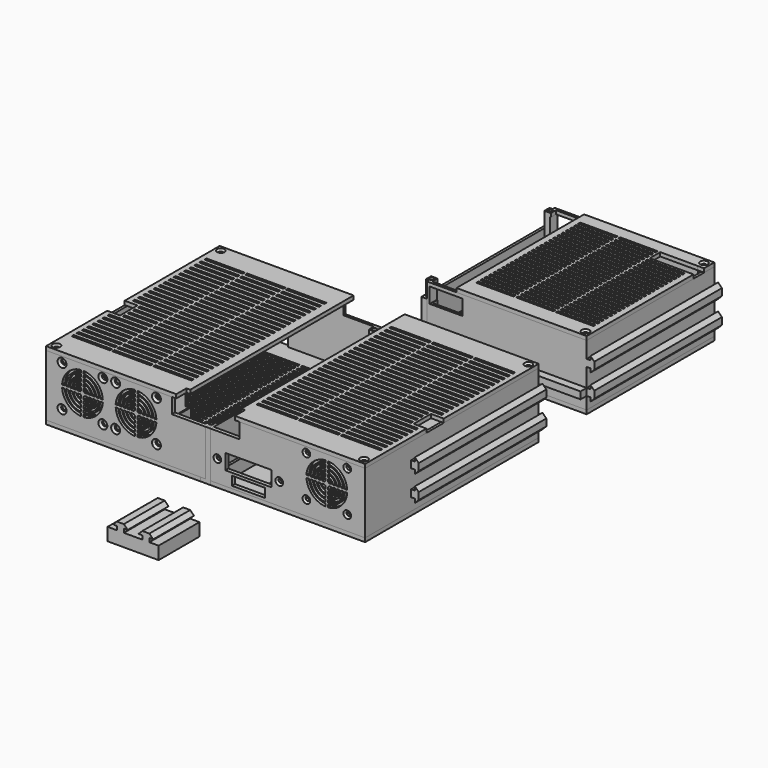
from build123d import *

# Parameters (mm, degrees)
SKETCH010_W             = 125
SKETCH010_H             = 170
PAD_DEPTH               = 3
SKETCH062_W             = 4
SKETCH062_H             = 10
PAD017_DEPTH            = 3
HOLE002_D               = 3.3
HOLE002_CSINK_D         = 6
HOLE002_CSINK_ANGLE     = 90
SKETCH064_W             = 4
SKETCH064_H             = 9
POCKET023_DEPTH         = 3
SKETCH081_R             = 3
PAD036_DEPTH            = 10
SKETCH105_R             = 1.375
HOLE014_DEPTH           = 25
PAD048_DEPTH            = 10
PAD001_DEPTH            = 48
PAD002_DEPTH            = 125
SKETCH025_W             = 8
SKETCH025_H             = 10
POCKET001_DEPTH         = 1
SKETCH028_W             = 26.5
SKETCH028_H             = 12
POCKET003_DEPTH         = 170.001
PAD016_DEPTH            = 5
HOLE009_D               = 3.3
HOLE009_DEPTH           = 24.00858
HOLE009_CSINK_D         = 6
HOLE009_CSINK_ANGLE     = 90
HOLE009_TIPS_R          = 1.65
POCKET_DEPTH            = 15
SKETCH053_R             = 1.65
HOLE015_DEPTH           = 48.001
SKETCH131_W             = 26
SKETCH131_H             = 7
SKETCH131_W_2           = 36
SKETCH131_H_2           = 12
POCKET044_DEPTH         = 5
HOLE020_D               = 3.3
HOLE020_DEPTH           = 24.00858
HOLE020_CSINK_D         = 6
HOLE020_CSINK_ANGLE     = 90
HOLE020_TIPS_R          = 1.65
SKETCH140_W             = 2.5
SKETCH140_H             = 3
SKETCH140_H_2           = 2
POCKET048_DEPTH         = 5.001
SKETCH031_W             = 105
SKETCH031_H             = 170
PAD005_DEPTH            = 3
SKETCH033_W             = 31
SKETCH033_H             = 2
POCKET006_DEPTH         = 3.001
LINEARPATTERN002_COUNT  = 27
LINEARPATTERN002_PITCH  = 5
SKETCH059_W             = 3
SKETCH059_H             = 10
POCKET022_DEPTH         = 3.001
POCKET037_DEPTH         = 3.001
SKETCH107_W             = 2
SKETCH107_H             = 2
PAD037_DEPTH            = 3
HOLE022_D               = 3.3
HOLE022_CSINK_D         = 6
HOLE022_CSINK_ANGLE     = 90
SKETCH034_W             = 125
SKETCH034_H             = 170
PAD006_DEPTH            = 3
SKETCH065_W             = 4
SKETCH065_H             = 10
POCKET024_DEPTH         = 3
SKETCH066_W             = 4
SKETCH066_H             = 9
PAD018_DEPTH            = 3
HOLE003_D               = 3.3
HOLE003_DEPTH           = 25
HOLE003_CSINK_D         = 6
HOLE003_CSINK_ANGLE     = 90
SKETCH047_R             = 2.5
PAD019_DEPTH            = 6
SKETCH076_R             = 1.65
HOLE007_DEPTH           = 25
SKETCH138_W             = 38.25
SKETCH138_H             = 2
POCKET046_DEPTH         = 3.001
LINEARPATTERN005_COUNT  = 32
LINEARPATTERN005_PITCH  = 4.096774
SKETCH139_W             = 21.38225
SKETCH139_H             = 2
POCKET047_DEPTH         = 3.001
LINEARPATTERN006_COUNT  = 35
LINEARPATTERN006_PITCH  = 4.117647
PAD007_DEPTH            = 48
PAD011_DEPTH            = 125
SKETCH045_W             = 26.5
SKETCH045_H             = 12
POCKET013_DEPTH         = 170.001
SKETCH055_W             = 5
SKETCH055_H             = 5
PAD015_DEPTH            = 36
SKETCH056_W             = 5
SKETCH056_H             = 5
POCKET020_DEPTH         = 5
SKETCH046_W             = 40
SKETCH046_H             = 12
POCKET026_DEPTH         = 5
POCKET027_DEPTH         = 6
PAD023_DEPTH            = 1
SKETCH054_W             = 10.5
SKETCH054_H             = 5
POCKET028_DEPTH         = 1
HOLE008_D               = 3.85
HOLE008_DEPTH           = 23.843343
HOLE008_CSINK_D         = 7
HOLE008_CSINK_ANGLE     = 90
HOLE008_TIPS_R          = 1.925
POCKET042_DEPTH         = 15
LINEARPATTERN_COUNT     = 2
LINEARPATTERN_PITCH     = 42
SKETCH079_W             = 6
SKETCH079_H             = 7
POCKET043_DEPTH         = 1
SKETCH135_R             = 1.65
HOLE021_DEPTH           = 48.001
SKETCH042_W             = 105
SKETCH042_H             = 170
PAD010_DEPTH            = 3
SKETCH044_W             = 30
SKETCH044_H             = 2
POCKET012_DEPTH         = 5
LINEARPATTERN003_COUNT  = 27
LINEARPATTERN003_PITCH  = 5
SKETCH052_W             = 3
SKETCH052_H             = 10
POCKET018_DEPTH         = 3
SKETCH108_W             = 10
SKETCH108_H             = 17
POCKET038_DEPTH         = 3.001
SKETCH109_W             = 2
SKETCH109_H             = 2
PAD038_DEPTH            = 3
HOLE_D                  = 3.3
HOLE_CSINK_D            = 6
HOLE_CSINK_ANGLE        = 90
PAD020_DEPTH            = 3
PAD021_DEPTH            = 36
SKETCH073_W             = 5
SKETCH073_H             = 5
PAD022_DEPTH            = 5
SKETCH074_R             = 1.65
HOLE006_DEPTH           = 25
POCKET025_DEPTH         = 1.5
SKETCH084_W             = 125
SKETCH084_H             = 125
PAD026_DEPTH            = 3
POCKET033_DEPTH         = 3
SKETCH097_W             = 4.5
SKETCH097_H             = 8
PAD034_DEPTH            = 3
HOLE011_D               = 3.3
HOLE011_DEPTH           = 25
HOLE011_CSINK_D         = 6
HOLE011_CSINK_ANGLE     = 90
SKETCH126_R             = 2.5
PAD046_DEPTH            = 5
SKETCH127_R             = 1.65
HOLE018_DEPTH           = 25
SKETCH141_W             = 1
SKETCH141_H             = 70
POCKET049_DEPTH         = 1.5
SKETCH146_W             = 34
SKETCH146_H             = 2
SKETCH146_W_2           = 23.7
SKETCH146_W_3           = 15.7
POCKET050_DEPTH         = 3.001
LINEARPATTERN007_COUNT  = 32
LINEARPATTERN007_PITCH  = 3.612903
PAD027_DEPTH            = 48
PAD028_DEPTH            = 125
SKETCH087_W             = 125
SKETCH087_H             = 5.5
PAD029_DEPTH            = 6
SKETCH088_W             = 5
SKETCH088_H             = 5
PAD030_DEPTH            = 48
SKETCH089_R             = 1.65
HOLE010_DEPTH           = 49
SKETCH090_W             = 5
SKETCH090_H             = 5
POCKET031_DEPTH         = 5
SKETCH091_W             = 25.5
SKETCH091_H             = 12
POCKET032_DEPTH         = 131.001
SKETCH092_W             = 125
SKETCH092_H             = 39
PAD031_DEPTH            = 2
SKETCH093_W             = 2
SKETCH093_H             = 2.5
PAD032_DEPTH            = 36
PAD033_DEPTH            = 3
HOLE012_D               = 3.3
HOLE012_DEPTH           = 24.00858
HOLE012_CSINK_D         = 6
HOLE012_CSINK_ANGLE     = 90
HOLE012_TIPS_R          = 1.65
SKETCH100_W             = 8
SKETCH100_H             = 3
POCKET034_DEPTH         = 2
SKETCH101_W             = 30
SKETCH101_H             = 15
POCKET035_DEPTH         = 5
SKETCH147_W             = 6
SKETCH147_H             = 6
PAD051_DEPTH            = 5
SKETCH148_W             = 5
SKETCH148_H             = 5
PAD052_DEPTH            = 5
SKETCH149_R             = 1.65
HOLE025_DEPTH           = 24.00858
HOLE025_TIPS_R          = 1.65
SKETCH102_W             = 102
SKETCH102_H             = 125
PAD035_DEPTH            = 3
HOLE013_D               = 3.3
HOLE013_DEPTH           = 25
HOLE013_CSINK_D         = 6
HOLE013_CSINK_ANGLE     = 90
SKETCH104_W             = 29.333333
SKETCH104_H             = 2
SKETCH104_W_2           = 29.333334
POCKET036_DEPTH         = 5
POCKET039_DEPTH         = 3.001
LINEARPATTERN004_COUNT  = 25
LINEARPATTERN004_PITCH  = 4.166667
SKETCH110_W             = 34.333333
SKETCH110_H             = 10.333333
POCKET040_DEPTH         = 3.001
PAD039_DEPTH            = 40
PAD049_DEPTH            = 3
HOLE023_D               = 3.3
HOLE023_DEPTH           = 25
HOLE023_CSINK_D         = 6
HOLE023_CSINK_ANGLE     = 90
PAD050_DEPTH            = 3
HOLE024_D               = 3.3
HOLE024_DEPTH           = 25
HOLE024_CSINK_D         = 6
HOLE024_CSINK_ANGLE     = 90
BODY014_PLACEMENT_ANGLE = 180


with BuildPart() as base_plate_front_right:
    # Sketch010 → Pad (new body)
    with BuildSketch(Plane.XY.offset(2)):
        with Locations((62.5, 85)):
            Rectangle(SKETCH010_W, SKETCH010_H)
    extrude(amount=PAD_DEPTH)

    # Sketch062 (on Face5 of Pad) → Pad017 (join)
    with BuildSketch(Plane(origin=(0, 0, 2), x_dir=(1, 0, 0), z_dir=(0, 0, -1))):
        with Locations((-2, -5)):
            Rectangle(SKETCH062_W, SKETCH062_H)
    extrude(amount=-PAD017_DEPTH)

    # Hole002 (through all)
    with Locations(Plane(origin=(0, 0, 2), x_dir=(1, 0, 0), z_dir=(0, 0, -1))):
        with Locations((0, -5.5), (120.5, -4.5), (120.5, -165.5)):
            CounterSinkHole(HOLE002_D / 2, HOLE002_CSINK_D / 2, counter_sink_angle=HOLE002_CSINK_ANGLE)

    # Sketch064 (on Face4 of Hole002) → Pocket023 (cut)
    with BuildSketch(Plane(origin=(0, 0, 2), x_dir=(1, 0, 0), z_dir=(0, 0, -1))):
        with Locations((2, -165.5)):
            Rectangle(SKETCH064_W, SKETCH064_H)
    extrude(amount=-POCKET023_DEPTH, mode=Mode.SUBTRACT)

    # Sketch081 (on Face5 of Pocket023) → Pad036 (join)
    with BuildSketch(Plane.XY.offset(5)):
        with Locations((101.5, 151.5)):
            Circle(SKETCH081_R)
        with Locations((52.5, 151.5)):
            Circle(SKETCH081_R)
        with Locations((101.5, 93.5)):
            Circle(SKETCH081_R)
        with Locations((52.5, 93.5)):
            Circle(SKETCH081_R)
    extrude(amount=PAD036_DEPTH)

    # Sketch105 (on Face27 of Pad036) → Hole014 (cut)
    with BuildSketch(Plane.XY.offset(15)):
        with Locations((52.5, 151.5)):
            Circle(SKETCH105_R)
        with Locations((101.5, 151.5)):
            Circle(SKETCH105_R)
        with Locations((52.5, 93.5)):
            Circle(SKETCH105_R)
        with Locations((101.5, 93.5)):
            Circle(SKETCH105_R)
    extrude(amount=-HOLE014_DEPTH, mode=Mode.SUBTRACT)

    # Sketch130 (on Face5 of Hole014) → Pad048 (join)
    with BuildSketch(Plane.XY.offset(5)):
        Polygon((12, 2), (12, 54), (15, 54), (15, 56), (10, 56), (10, 2), align=None)
        Polygon((46, 2), (48, 2), (48, 56), (43, 56), (43, 54), (46, 54), align=None)
    extrude(amount=PAD048_DEPTH)


with BuildPart() as base_plate_front_right_1:
    # Body placement: moved
    add(base_plate_front_right.part.moved(Location((0, 0, -1))))


with BuildPart() as walls_front_right:
    # Sketch023 → Pad001 (new body)
    with BuildSketch(Plane.XY.offset(2)):
        Polygon((0, 0), (125, 0), (125, 170), (0, 170), (0, 168), (118, 168), (118, 163), (123, 163), (123, 14.5), (72, 14.5), (72, 3), (0, 3), align=None)
        Polygon((73, 3), (118, 3), (118, 7), (123, 7), (123, 13.5), (73, 13.5), align=None, mode=Mode.SUBTRACT)
    extrude(amount=PAD001_DEPTH)

    # Sketch → Pad002 (join)
    with BuildSketch(Plane(origin=(0, 170, 0), x_dir=(-1, 0, 0), z_dir=(0, 1, 0))):
        Polygon((-125, 17.25), (-128, 17.25), (-128, 20.25), (-131, 17.25), (-131, 11.75), (-128, 8.75), (-128, 11.75), (-125, 11.75), align=None)
        Polygon((-125, 37.25), (-128, 37.25), (-128, 40.25), (-131, 37.25), (-131, 31.75), (-128, 28.75), (-128, 31.75), (-125, 31.75), align=None)
    extrude(amount=-PAD002_DEPTH)

    # Sketch025 (on Face20 of Pad002) → Pocket001 (cut)
    with BuildSketch(Plane(origin=(72, 0, 0), x_dir=(0, -1, 0), z_dir=(-1, 0, 0))):
        with Locations((-6.75, 7)):
            Rectangle(SKETCH025_W, SKETCH025_H)
    extrude(amount=-POCKET001_DEPTH, mode=Mode.SUBTRACT)

    # Sketch028 (on Face1 of Pocket001) → Pocket003 (cut, through all)
    with BuildSketch(Plane.XZ):
        with Locations((13.25, 44)):
            Rectangle(SKETCH028_W, SKETCH028_H)
    extrude(amount=-POCKET003_DEPTH, mode=Mode.SUBTRACT)

    # Sketch057 (on Face2 of Pocket003) → Pad016 (join)
    with BuildSketch(Plane(origin=(0, 0, 2), x_dir=(1, 0, 0), z_dir=(0, 0, -1))):
        Polygon((-2.5, -8), (2.5, -8), (2.5, -3), (0, -3), (0, 0), (-2.5, 0), align=None)
        Polygon((2.5, -168), (0, -168), (0, -170), (-2.5, -170), (-2.5, -163), (2.5, -163), align=None)
    extrude(amount=-PAD016_DEPTH)

    # Hole009
    with Locations(Plane.XZ):
        with Locations((79, 45.5), (111, 45.5), (111, 13.5), (79, 13.5)):
            CounterSinkHole(HOLE009_D / 2, HOLE009_CSINK_D / 2, depth=HOLE009_DEPTH, counter_sink_angle=HOLE009_CSINK_ANGLE)

    # Hole009 tips → Hole009 tip 1 section 0
    with BuildSketch(Plane.XZ.offset(-24.00858), mode=Mode.PRIVATE) as hole009_tip_1_s0:
        with Locations((79, 45.5)):
            Circle(HOLE009_TIPS_R)
    loft([hole009_tip_1_s0.sketch, Vertex(79, 25, 45.5)], mode=Mode.SUBTRACT)

    # Hole009 tips → Hole009 tip 2 section 0
    with BuildSketch(Plane.XZ.offset(-24.00858), mode=Mode.PRIVATE) as hole009_tip_2_s0:
        with Locations((111, 45.5)):
            Circle(HOLE009_TIPS_R)
    loft([hole009_tip_2_s0.sketch, Vertex(111, 25, 45.5)], mode=Mode.SUBTRACT)

    # Hole009 tips → Hole009 tip 3 section 0
    with BuildSketch(Plane.XZ.offset(-24.00858), mode=Mode.PRIVATE) as hole009_tip_3_s0:
        with Locations((111, 13.5)):
            Circle(HOLE009_TIPS_R)
    loft([hole009_tip_3_s0.sketch, Vertex(111, 25, 13.5)], mode=Mode.SUBTRACT)

    # Hole009 tips → Hole009 tip 4 section 0
    with BuildSketch(Plane.XZ.offset(-24.00858), mode=Mode.PRIVATE) as hole009_tip_4_s0:
        with Locations((79, 13.5)):
            Circle(HOLE009_TIPS_R)
    loft([hole009_tip_4_s0.sketch, Vertex(79, 25, 13.5)], mode=Mode.SUBTRACT)

    # Sketch022 (on Face1 of Pad001) → Pocket (cut)
    with BuildSketch(Plane.XZ):
        with BuildLine():
            ThreePointArc((94, 45.468719), (83.686292, 40.813708), (79.031281, 30.5))
            Line((79.031281, 30.5), (81.03576, 30.5))
            ThreePointArc((94, 43.46424), (85.100505, 39.399495), (81.03576, 30.5))
            Line((94, 43.46424), (94, 45.468719))
        make_face()
        with BuildLine():
            ThreePointArc((110.968719, 30.5), (106.313708, 40.813708), (96, 45.468719))
            Line((96, 43.46424), (96, 45.468719))
            ThreePointArc((108.96424, 30.5), (104.899495, 39.399495), (96, 43.46424))
            Line((108.96424, 30.5), (110.968719, 30.5))
        make_face()
        with BuildLine():
            ThreePointArc((96, 13.531281), (106.313708, 18.186292), (110.968719, 28.5))
            Line((110.968719, 28.5), (108.96424, 28.5))
            ThreePointArc((96, 15.53576), (104.899495, 19.600505), (108.96424, 28.5))
            Line((96, 13.531281), (96, 15.53576))
        make_face()
        with BuildLine():
            ThreePointArc((79.031281, 28.5), (83.686292, 18.186292), (94, 13.531281))
            Line((94, 13.531281), (94, 15.53576))
            ThreePointArc((81.03576, 28.5), (85.100505, 19.600505), (94, 15.53576))
            Line((81.03576, 28.5), (79.031281, 28.5))
        make_face()
        with BuildLine():
            ThreePointArc((94, 42.461481), (85.807612, 38.692388), (82.038519, 30.5))
            Line((82.038519, 30.5), (84.045549, 30.5))
            ThreePointArc((94, 40.454451), (87.221825, 37.278175), (84.045549, 30.5))
            Line((94, 40.454451), (94, 42.461481))
        make_face()
        with BuildLine():
            ThreePointArc((96, 16.538519), (104.192388, 20.307612), (107.961481, 28.5))
            Line((105.954451, 28.5), (107.961481, 28.5))
            ThreePointArc((96, 18.545549), (102.778175, 21.721825), (105.954451, 28.5))
            Line((96, 16.538519), (96, 18.545549))
        make_face()
        with BuildLine():
            ThreePointArc((105.954451, 30.5), (102.778175, 37.278175), (96, 40.454451))
            Line((96, 42.461481), (96, 40.454451))
            ThreePointArc((107.961481, 30.5), (104.192388, 38.692388), (96, 42.461481))
            Line((107.961481, 30.5), (105.954451, 30.5))
        make_face()
        with BuildLine():
            ThreePointArc((82.038519, 28.5), (85.807612, 20.307612), (94, 16.538519))
            Line((94, 16.538519), (94, 18.545549))
            ThreePointArc((84.045549, 28.5), (87.221825, 21.721825), (94, 18.545549))
            Line((82.038519, 28.5), (84.045549, 28.5))
        make_face()
        with BuildLine():
            ThreePointArc((94, 37.437254), (89.343146, 35.156854), (87.062746, 30.5))
            Line((85.050126, 30.5), (87.062746, 30.5))
            ThreePointArc((94, 39.449874), (87.928932, 36.571068), (85.050126, 30.5))
            Line((94, 37.437254), (94, 39.449874))
        make_face()
        with BuildLine():
            ThreePointArc((102.937254, 30.5), (100.656854, 35.156854), (96, 37.437254))
            Line((96, 37.437254), (96, 39.449874))
            ThreePointArc((104.949874, 30.5), (102.071068, 36.571068), (96, 39.449874))
            Line((104.949874, 30.5), (102.937254, 30.5))
        make_face()
        with BuildLine():
            ThreePointArc((96, 19.550126), (102.071068, 22.428932), (104.949874, 28.5))
            Line((102.937254, 28.5), (104.949874, 28.5))
            ThreePointArc((96, 21.562746), (100.656854, 23.843146), (102.937254, 28.5))
            Line((96, 19.550126), (96, 21.562746))
        make_face()
        with BuildLine():
            ThreePointArc((85.050126, 28.5), (87.928932, 22.428932), (94, 19.550126))
            Line((94, 19.550126), (94, 21.562746))
            ThreePointArc((87.062746, 28.5), (89.343146, 23.843146), (94, 21.562746))
            Line((85.050126, 28.5), (87.062746, 28.5))
        make_face()
        with BuildLine():
            ThreePointArc((94, 36.428203), (90.050253, 34.449747), (88.071797, 30.5))
            Line((88.071797, 30.5), (90.101021, 30.5))
            ThreePointArc((94, 34.398979), (91.464466, 33.035534), (90.101021, 30.5))
            Line((94, 34.398979), (94, 36.428203))
        make_face()
        with BuildLine():
            ThreePointArc((101.928203, 30.5), (99.949747, 34.449747), (96, 36.428203))
            Line((96, 34.398979), (96, 36.428203))
            ThreePointArc((99.898979, 30.5), (98.535534, 33.035534), (96, 34.398979))
            Line((99.898979, 30.5), (101.928203, 30.5))
        make_face()
        with BuildLine():
            ThreePointArc((96, 22.571797), (99.949747, 24.550253), (101.928203, 28.5))
            Line((99.898979, 28.5), (101.928203, 28.5))
            ThreePointArc((96, 24.601021), (98.535534, 25.964466), (99.898979, 28.5))
            Line((96, 22.571797), (96, 24.601021))
        make_face()
        with BuildLine():
            ThreePointArc((90.101021, 28.5), (91.464466, 25.964466), (94, 24.601021))
            Line((94, 22.571797), (94, 24.601021))
            ThreePointArc((88.071797, 28.5), (90.050253, 24.550253), (94, 22.571797))
            Line((88.071797, 28.5), (90.101021, 28.5))
        make_face()
        with BuildLine():
            ThreePointArc((94, 33.372983), (92.171573, 32.328427), (91.127017, 30.5))
            Line((91.127017, 30.5), (93.267949, 30.5))
            ThreePointArc((94, 31.232051), (93.585786, 30.914214), (93.267949, 30.5))
            Line((94, 31.232051), (94, 33.372983))
        make_face()
        with BuildLine():
            ThreePointArc((96.732051, 30.5), (96.414214, 30.914214), (96, 31.232051))
            Line((96, 31.232051), (96, 33.372983))
            ThreePointArc((98.872983, 30.5), (97.828427, 32.328427), (96, 33.372983))
            Line((96.732051, 30.5), (98.872983, 30.5))
        make_face()
        with BuildLine():
            ThreePointArc((96, 25.627017), (97.828427, 26.671573), (98.872983, 28.5))
            Line((96.732051, 28.5), (98.872983, 28.5))
            ThreePointArc((96, 27.767949), (96.414214, 28.085786), (96.732051, 28.5))
            Line((96, 25.627017), (96, 27.767949))
        make_face()
        with BuildLine():
            ThreePointArc((91.127017, 28.5), (92.171573, 26.671573), (94, 25.627017))
            Line((94, 25.627017), (94, 27.767949))
            ThreePointArc((93.267949, 28.5), (93.585786, 28.085786), (94, 27.767949))
            Line((91.127017, 28.5), (93.267949, 28.5))
        make_face()
    extrude(amount=-POCKET_DEPTH, mode=Mode.SUBTRACT)

    # Sketch053 (on Face2 of Pocket003) → Hole015 (cut, through all)
    with BuildSketch(Plane(origin=(0, 0, 2), x_dir=(1, 0, 0), z_dir=(0, 0, -1))):
        with Locations((0, -5.5)):
            Circle(SKETCH053_R)
        with Locations((0, -165.5)):
            Circle(SKETCH053_R)
        with Locations((120.5, -4.5)):
            Circle(SKETCH053_R)
        with Locations((120.5, -165.5)):
            Circle(SKETCH053_R)
    extrude(amount=-HOLE015_DEPTH, mode=Mode.SUBTRACT)

    # Sketch131 → Pocket044 (cut)
    with BuildSketch(Plane.XZ):
        with Locations((33.5, 7.5)):
            Rectangle(SKETCH131_W, SKETCH131_H)
        with Locations((33.5, 19)):
            Rectangle(SKETCH131_W_2, SKETCH131_H_2)
    extrude(amount=-POCKET044_DEPTH, mode=Mode.SUBTRACT)

    # Hole020
    with Locations(Plane.XZ):
        with Locations((9.25, 19), (57.75, 19)):
            CounterSinkHole(HOLE020_D / 2, HOLE020_CSINK_D / 2, depth=HOLE020_DEPTH, counter_sink_angle=HOLE020_CSINK_ANGLE)

    # Hole020 tips → Hole020 tip 1 section 0
    with BuildSketch(Plane.XZ.offset(-24.00858), mode=Mode.PRIVATE) as hole020_tip_1_s0:
        with Locations((9.25, 19)):
            Circle(HOLE020_TIPS_R)
    loft([hole020_tip_1_s0.sketch, Vertex(9.25, 25, 19)], mode=Mode.SUBTRACT)

    # Hole020 tips → Hole020 tip 2 section 0
    with BuildSketch(Plane.XZ.offset(-24.00858), mode=Mode.PRIVATE) as hole020_tip_2_s0:
        with Locations((57.75, 19)):
            Circle(HOLE020_TIPS_R)
    loft([hole020_tip_2_s0.sketch, Vertex(57.75, 25, 19)], mode=Mode.SUBTRACT)

    # Sketch140 (on Face126 of Hole020) → Pocket048 (cut, through all)
    with BuildSketch(Plane.XY.offset(7)):
        with Locations((-1.25, 1.5)):
            Rectangle(SKETCH140_W, SKETCH140_H)
        with Locations((-1.25, 169)):
            Rectangle(SKETCH140_W, SKETCH140_H_2)
    extrude(amount=-POCKET048_DEPTH, mode=Mode.SUBTRACT)


with BuildPart() as walls_front_right_1:
    # Body002 placement: moved
    add(walls_front_right.part.moved(Location((0, 0, 2))))


with BuildPart() as lid_front_right:
    # Sketch031 → Pad005 (new body)
    with BuildSketch(Plane.XY):
        with Locations((72.5, 85)):
            Rectangle(SKETCH031_W, SKETCH031_H)
    extrude(amount=PAD005_DEPTH)

    # Sketch033 → Pocket006 (cut, through all)
    with BuildSketch(Plane.XY.offset(3)):
        with Locations((39.5, 21)):
            Rectangle(SKETCH033_W, SKETCH033_H)
        with Locations((72.5, 21)):
            Rectangle(SKETCH033_W, SKETCH033_H)
        with Locations((105.5, 21)):
            Rectangle(SKETCH033_W, SKETCH033_H)
    pocket006 = extrude(amount=-POCKET006_DEPTH, mode=Mode.SUBTRACT)

    # LinearPattern002: Pocket006 ×27
    with Locations(*[(0, i * LINEARPATTERN002_PITCH, 0) for i in range(1, LINEARPATTERN002_COUNT)]):
        add(pocket006, mode=Mode.SUBTRACT)

    # Sketch059 → Pocket022 (cut, through all)
    with BuildSketch(Plane.XY.offset(3)):
        with Locations((21.5, 5)):
            Rectangle(SKETCH059_W, SKETCH059_H)
    extrude(amount=-POCKET022_DEPTH, mode=Mode.SUBTRACT)

    # Sketch106 → Pocket037 (cut, through all)
    with BuildSketch(Plane.XY.offset(3)):
        Polygon((125, 60), (115, 60), (115, 77), (121, 77), (125, 77), align=None)
    extrude(amount=-POCKET037_DEPTH, mode=Mode.SUBTRACT)

    # Sketch107 → Pad037 (join)
    with BuildSketch(Plane.XY.offset(3)):
        with Locations((114, 76)):
            Rectangle(SKETCH107_W, SKETCH107_H)
        with Locations((114, 71)):
            Rectangle(SKETCH107_W, SKETCH107_H)
        with Locations((114, 66)):
            Rectangle(SKETCH107_W, SKETCH107_H)
        with Locations((114, 61)):
            Rectangle(SKETCH107_W, SKETCH107_H)
    extrude(amount=-PAD037_DEPTH)

    # Hole022 (through all)
    with Locations(Plane.XY.offset(3)):
        with Locations((120.5, 165.5), (120.5, 4.5)):
            CounterSinkHole(HOLE022_D / 2, HOLE022_CSINK_D / 2, counter_sink_angle=HOLE022_CSINK_ANGLE)


with BuildPart() as lid_front_right_1:
    # Body003 placement: moved
    add(lid_front_right.part.moved(Location((0, 0, 52))))


with BuildPart() as base_plate_front_left:
    # Sketch034 → Pad006 (new body)
    with BuildSketch(Plane.XY):
        with Locations((-62.5, 85)):
            Rectangle(SKETCH034_W, SKETCH034_H)
    extrude(amount=PAD006_DEPTH)

    # Sketch065 (on Face5 of Pad006) → Pocket024 (cut)
    with BuildSketch(Plane(origin=(0, 0, 0), x_dir=(1, 0, 0), z_dir=(0, 0, -1))):
        with Locations((-2, -5)):
            Rectangle(SKETCH065_W, SKETCH065_H)
    extrude(amount=-POCKET024_DEPTH, mode=Mode.SUBTRACT)

    # Sketch066 (on Face2 of Pocket024) → Pad018 (join)
    with BuildSketch(Plane(origin=(0, 0, 0), x_dir=(1, 0, 0), z_dir=(0, 0, -1))):
        with Locations((2, -165.5)):
            Rectangle(SKETCH066_W, SKETCH066_H)
    extrude(amount=-PAD018_DEPTH)

    # Hole003
    with Locations(Plane(origin=(0, 0, 0), x_dir=(1, 0, 0), z_dir=(0, 0, -1))):
        with Locations((0, -165.5), (-120.5, -165.5), (-120.5, -4.5)):
            CounterSinkHole(HOLE003_D / 2, HOLE003_CSINK_D / 2, depth=HOLE003_DEPTH, counter_sink_angle=HOLE003_CSINK_ANGLE)

    # Sketch047 (on Face6 of Pad006) → Pad019 (join)
    with BuildSketch(Plane.XY.offset(3)):
        with Locations((-91.61775, 158)):
            Circle(SKETCH047_R)
        with Locations((-5.11775, 158)):
            Circle(SKETCH047_R)
        with Locations((-91.61775, 20)):
            Circle(SKETCH047_R)
        with Locations((-5.11775, 20)):
            Circle(SKETCH047_R)
    extrude(amount=PAD019_DEPTH)

    # Sketch076 (on Face26 of Pad019) → Hole007 (cut)
    with BuildSketch(Plane.XY.offset(9)):
        with Locations((-91.61775, 158)):
            Circle(SKETCH076_R)
        with Locations((-5.11775, 158)):
            Circle(SKETCH076_R)
        with Locations((-5.11775, 20)):
            Circle(SKETCH076_R)
        with Locations((-91.61775, 20)):
            Circle(SKETCH076_R)
    extrude(amount=-HOLE007_DEPTH, mode=Mode.SUBTRACT)

    # Sketch138 (on Face4 of Hole007) → Pocket046 (cut, through all)
    with BuildSketch(Plane.XY.offset(3)):
        with Locations((-68.49275, 26)):
            Rectangle(SKETCH138_W, SKETCH138_H)
        with Locations((-28.24275, 26)):
            Rectangle(SKETCH138_W, SKETCH138_H)
    pocket046 = extrude(amount=-POCKET046_DEPTH, mode=Mode.SUBTRACT)

    # LinearPattern005: Pocket046 ×32
    with Locations(*[(0, i * LINEARPATTERN005_PITCH, 0) for i in range(1, LINEARPATTERN005_COUNT)]):
        add(pocket046, mode=Mode.SUBTRACT)

    # Sketch139 (on Face4 of LinearPattern005) → Pocket047 (cut, through all)
    with BuildSketch(Plane.XY.offset(3)):
        with Locations((-108.308875, 18)):
            Rectangle(SKETCH139_W, SKETCH139_H)
    pocket047 = extrude(amount=-POCKET047_DEPTH, mode=Mode.SUBTRACT)

    # LinearPattern006: Pocket047 ×35
    with Locations(*[(0, i * LINEARPATTERN006_PITCH, 0) for i in range(1, LINEARPATTERN006_COUNT)]):
        add(pocket047, mode=Mode.SUBTRACT)


with BuildPart() as base_plate_front_left_1:
    # Body004 placement: moved
    add(base_plate_front_left.part.moved(Location((0, 0, 1))))


with BuildPart() as walls_front_left:
    # Sketch036 → Pad007 (new body)
    with BuildSketch(Plane.XY):
        Polygon((-123, 14.5), (-123, 163), (-118, 163), (-118, 168), (0, 168), (0, 170), (-125, 170), (-125, 0), (0, 0), (0, 3), (-23, 3), (-23, 14.5), align=None)
        Polygon((-118, 3), (-24, 3), (-24, 13.5), (-123, 13.5), (-123, 7), (-118, 7), align=None, mode=Mode.SUBTRACT)
    extrude(amount=PAD007_DEPTH)

    # Sketch040 → Pad011 (join)
    with BuildSketch(Plane(origin=(0, 170, 0), x_dir=(-1, 0, 0), z_dir=(0, 1, 0))):
        Polygon((125, 29.75), (128, 29.75), (128, 26.75), (131, 29.75), (131, 35.25), (128, 38.25), (128, 35.25), (125, 35.25), align=None)
        Polygon((125, 9.75), (128, 9.75), (128, 6.75), (131, 9.75), (131, 15.25), (128, 18.25), (128, 15.25), (125, 15.25), align=None)
    extrude(amount=-PAD011_DEPTH)

    # Sketch045 (on Face13 of Pad011) → Pocket013 (cut, through all)
    with BuildSketch(Plane.XZ):
        with Locations((-13.25, 42)):
            Rectangle(SKETCH045_W, SKETCH045_H)
    extrude(amount=-POCKET013_DEPTH, mode=Mode.SUBTRACT)

    # Sketch055 → Pad015 (join)
    with BuildSketch(Plane(origin=(0, 0, 0), x_dir=(1, 0, 0), z_dir=(0, 0, -1))):
        with Locations((0, -5.5)):
            Rectangle(SKETCH055_W, SKETCH055_H)
        with Locations((0, -165.5)):
            Rectangle(SKETCH055_W, SKETCH055_H)
    extrude(amount=-PAD015_DEPTH)

    # Sketch056 (on Face44 of Pad015) → Pocket020 (cut)
    with BuildSketch(Plane.YZ.offset(2.5)):
        with Locations((5.5, 2.5)):
            Rectangle(SKETCH056_W, SKETCH056_H)
        with Locations((165.5, 2.5)):
            Rectangle(SKETCH056_W, SKETCH056_H)
    extrude(amount=-POCKET020_DEPTH, mode=Mode.SUBTRACT)

    # Sketch046 (on Face12 of Pocket013) → Pocket026 (cut)
    with BuildSketch(Plane(origin=(0, 170, 0), x_dir=(-1, 0, 0), z_dir=(0, 1, 0))):
        with Locations((90, 6)):
            Rectangle(SKETCH046_W, SKETCH046_H)
    extrude(amount=-POCKET026_DEPTH, mode=Mode.SUBTRACT)

    # Sketch048 (on Face2 of Pocket026) → Pocket027 (cut)
    with BuildSketch(Plane(origin=(0, 0, 0), x_dir=(1, 0, 0), z_dir=(0, 0, -1))):
        Polygon((-123, -14.5), (-23, -14.5), (-23, -3), (-24, -3), (-24, -13.5), (-123, -13.5), align=None)
    extrude(amount=-POCKET027_DEPTH, mode=Mode.SUBTRACT)

    # Sketch049 → Pad023 (join)
    with BuildSketch(Plane(origin=(0, 0, 6), x_dir=(1, 0, 0), z_dir=(0, 0, -1))):
        Polygon((-118, -3), (-24, -3), (-24, -13.5), (-123, -13.5), (-123, -7), (-118, -7), align=None)
    extrude(amount=-PAD023_DEPTH)

    # Sketch054 → Pocket028 (cut)
    with BuildSketch(Plane.YZ.offset(-23)):
        with Locations((8.25, 9.5)):
            Rectangle(SKETCH054_W, SKETCH054_H)
    extrude(amount=-POCKET028_DEPTH, mode=Mode.SUBTRACT)

    # Hole008
    with Locations(Plane.XZ):
        with Locations((-112.5, 43.5), (-80.5, 43.5), (-112.5, 11.5), (-80.5, 11.5), (-70.5, 43.5), (-38.5, 43.5), (-70.5, 11.5), (-38.5, 11.5)):
            CounterSinkHole(HOLE008_D / 2, HOLE008_CSINK_D / 2, depth=HOLE008_DEPTH, counter_sink_angle=HOLE008_CSINK_ANGLE)

    # Hole008 tips → Hole008 tip 1 section 0
    with BuildSketch(Plane.XZ.offset(-23.843343), mode=Mode.PRIVATE) as hole008_tip_1_s0:
        with Locations((-112.5, 43.5)):
            Circle(HOLE008_TIPS_R)
    loft([hole008_tip_1_s0.sketch, Vertex(-112.5, 25, 43.5)], mode=Mode.SUBTRACT)

    # Hole008 tips → Hole008 tip 2 section 0
    with BuildSketch(Plane.XZ.offset(-23.843343), mode=Mode.PRIVATE) as hole008_tip_2_s0:
        with Locations((-80.5, 43.5)):
            Circle(HOLE008_TIPS_R)
    loft([hole008_tip_2_s0.sketch, Vertex(-80.5, 25, 43.5)], mode=Mode.SUBTRACT)

    # Hole008 tips → Hole008 tip 3 section 0
    with BuildSketch(Plane.XZ.offset(-23.843343), mode=Mode.PRIVATE) as hole008_tip_3_s0:
        with Locations((-112.5, 11.5)):
            Circle(HOLE008_TIPS_R)
    loft([hole008_tip_3_s0.sketch, Vertex(-112.5, 25, 11.5)], mode=Mode.SUBTRACT)

    # Hole008 tips → Hole008 tip 4 section 0
    with BuildSketch(Plane.XZ.offset(-23.843343), mode=Mode.PRIVATE) as hole008_tip_4_s0:
        with Locations((-80.5, 11.5)):
            Circle(HOLE008_TIPS_R)
    loft([hole008_tip_4_s0.sketch, Vertex(-80.5, 25, 11.5)], mode=Mode.SUBTRACT)

    # Hole008 tips → Hole008 tip 5 section 0
    with BuildSketch(Plane.XZ.offset(-23.843343), mode=Mode.PRIVATE) as hole008_tip_5_s0:
        with Locations((-70.5, 43.5)):
            Circle(HOLE008_TIPS_R)
    loft([hole008_tip_5_s0.sketch, Vertex(-70.5, 25, 43.5)], mode=Mode.SUBTRACT)

    # Hole008 tips → Hole008 tip 6 section 0
    with BuildSketch(Plane.XZ.offset(-23.843343), mode=Mode.PRIVATE) as hole008_tip_6_s0:
        with Locations((-38.5, 43.5)):
            Circle(HOLE008_TIPS_R)
    loft([hole008_tip_6_s0.sketch, Vertex(-38.5, 25, 43.5)], mode=Mode.SUBTRACT)

    # Hole008 tips → Hole008 tip 7 section 0
    with BuildSketch(Plane.XZ.offset(-23.843343), mode=Mode.PRIVATE) as hole008_tip_7_s0:
        with Locations((-70.5, 11.5)):
            Circle(HOLE008_TIPS_R)
    loft([hole008_tip_7_s0.sketch, Vertex(-70.5, 25, 11.5)], mode=Mode.SUBTRACT)

    # Hole008 tips → Hole008 tip 8 section 0
    with BuildSketch(Plane.XZ.offset(-23.843343), mode=Mode.PRIVATE) as hole008_tip_8_s0:
        with Locations((-38.5, 11.5)):
            Circle(HOLE008_TIPS_R)
    loft([hole008_tip_8_s0.sketch, Vertex(-38.5, 25, 11.5)], mode=Mode.SUBTRACT)

    # Sketch078 (on Face31 of Hole008) → Pocket042 (cut)
    with BuildSketch(Plane.XZ):
        with BuildLine():
            ThreePointArc((-112.468719, 26.5), (-107.813708, 16.186292), (-97.5, 11.531281))
            Line((-97.5, 11.531281), (-97.5, 13.53576))
            ThreePointArc((-110.46424, 26.5), (-106.399495, 17.600505), (-97.5, 13.53576))
            Line((-112.468719, 26.5), (-110.46424, 26.5))
        make_face()
        with BuildLine():
            ThreePointArc((-107.454451, 26.5), (-104.278175, 19.721825), (-97.5, 16.545549))
            Line((-97.5, 14.538519), (-97.5, 16.545549))
            ThreePointArc((-109.461481, 26.5), (-105.692388, 18.307612), (-97.5, 14.538519))
            Line((-109.461481, 26.5), (-107.454451, 26.5))
        make_face()
        with BuildLine():
            ThreePointArc((-106.449874, 26.5), (-103.571068, 20.428932), (-97.5, 17.550126))
            Line((-97.5, 17.550126), (-97.5, 19.562746))
            ThreePointArc((-104.437254, 26.5), (-102.156854, 21.843146), (-97.5, 19.562746))
            Line((-106.449874, 26.5), (-104.437254, 26.5))
        make_face()
        with BuildLine():
            ThreePointArc((-103.428203, 26.5), (-101.449747, 22.550253), (-97.5, 20.571797))
            Line((-97.5, 20.571797), (-97.5, 22.601021))
            ThreePointArc((-101.398979, 26.5), (-100.035534, 23.964466), (-97.5, 22.601021))
            Line((-103.428203, 26.5), (-101.398979, 26.5))
        make_face()
        with BuildLine():
            ThreePointArc((-100.372983, 26.5), (-99.328427, 24.671573), (-97.5, 23.627017))
            Line((-97.5, 23.627017), (-97.5, 25.767949))
            ThreePointArc((-98.232051, 26.5), (-97.914214, 26.085786), (-97.5, 25.767949))
            Line((-100.372983, 26.5), (-98.232051, 26.5))
        make_face()
        with BuildLine():
            ThreePointArc((-94.767949, 28.5), (-95.085786, 28.914214), (-95.5, 29.232051))
            Line((-95.5, 29.232051), (-95.5, 31.372983))
            ThreePointArc((-92.627017, 28.5), (-93.671573, 30.328427), (-95.5, 31.372983))
            Line((-94.767949, 28.5), (-92.627017, 28.5))
        make_face()
        with BuildLine():
            ThreePointArc((-91.601021, 28.5), (-92.964466, 31.035534), (-95.5, 32.398979))
            Line((-95.5, 32.398979), (-95.5, 34.428203))
            ThreePointArc((-89.571797, 28.5), (-91.550253, 32.449747), (-95.5, 34.428203))
            Line((-91.601021, 28.5), (-89.571797, 28.5))
        make_face()
        with BuildLine():
            ThreePointArc((-88.562746, 28.5), (-90.843146, 33.156854), (-95.5, 35.437254))
            Line((-95.5, 35.437254), (-95.5, 37.449874))
            ThreePointArc((-86.550126, 28.5), (-89.428932, 34.571068), (-95.5, 37.449874))
            Line((-88.562746, 28.5), (-86.550126, 28.5))
        make_face()
        with BuildLine():
            ThreePointArc((-85.545549, 28.5), (-88.721825, 35.278175), (-95.5, 38.454451))
            Line((-95.5, 38.454451), (-95.5, 40.461481))
            ThreePointArc((-83.538519, 28.5), (-87.307612, 36.692388), (-95.5, 40.461481))
            Line((-85.545549, 28.5), (-83.538519, 28.5))
        make_face()
        with BuildLine():
            ThreePointArc((-82.53576, 28.5), (-86.600505, 37.399495), (-95.5, 41.46424))
            Line((-95.5, 43.468719), (-95.5, 41.46424))
            ThreePointArc((-80.531281, 28.5), (-85.186292, 38.813708), (-95.5, 43.468719))
            Line((-82.53576, 28.5), (-80.531281, 28.5))
        make_face()
        with BuildLine():
            ThreePointArc((-97.5, 43.468719), (-107.813708, 38.813708), (-112.468719, 28.5))
            Line((-112.468719, 28.5), (-110.46424, 28.5))
            ThreePointArc((-97.5, 41.46424), (-106.399495, 37.399495), (-110.46424, 28.5))
            Line((-97.5, 43.468719), (-97.5, 41.46424))
        make_face()
        with BuildLine():
            ThreePointArc((-97.5, 40.461481), (-105.692388, 36.692388), (-109.461481, 28.5))
            Line((-109.461481, 28.5), (-107.454451, 28.5))
            ThreePointArc((-97.5, 38.454451), (-104.278175, 35.278175), (-107.454451, 28.5))
            Line((-97.5, 40.461481), (-97.5, 38.454451))
        make_face()
        with BuildLine():
            ThreePointArc((-97.5, 37.449874), (-103.571068, 34.571068), (-106.449874, 28.5))
            Line((-106.449874, 28.5), (-104.437254, 28.5))
            ThreePointArc((-97.5, 35.437254), (-102.156854, 33.156854), (-104.437254, 28.5))
            Line((-97.5, 35.437254), (-97.5, 37.449874))
        make_face()
        with BuildLine():
            ThreePointArc((-97.5, 34.428203), (-101.449747, 32.449747), (-103.428203, 28.5))
            Line((-103.428203, 28.5), (-101.398979, 28.5))
            ThreePointArc((-97.5, 32.398979), (-100.035534, 31.035534), (-101.398979, 28.5))
            Line((-97.5, 32.398979), (-97.5, 34.428203))
        make_face()
        with BuildLine():
            ThreePointArc((-97.5, 31.372983), (-99.328427, 30.328427), (-100.372983, 28.5))
            Line((-100.372983, 28.5), (-98.232051, 28.5))
            ThreePointArc((-97.5, 29.232051), (-97.914214, 28.914214), (-98.232051, 28.5))
            Line((-97.5, 29.232051), (-97.5, 31.372983))
        make_face()
        with BuildLine():
            ThreePointArc((-95.5, 25.767949), (-95.085786, 26.085786), (-94.767949, 26.5))
            Line((-92.627017, 26.5), (-94.767949, 26.5))
            ThreePointArc((-95.5, 23.627017), (-93.671573, 24.671573), (-92.627017, 26.5))
            Line((-95.5, 23.627017), (-95.5, 25.767949))
        make_face()
        with BuildLine():
            ThreePointArc((-95.5, 22.601021), (-92.964466, 23.964466), (-91.601021, 26.5))
            Line((-89.571797, 26.5), (-91.601021, 26.5))
            ThreePointArc((-95.5, 20.571797), (-91.550253, 22.550253), (-89.571797, 26.5))
            Line((-95.5, 20.571797), (-95.5, 22.601021))
        make_face()
        with BuildLine():
            ThreePointArc((-95.5, 19.562746), (-90.843146, 21.843146), (-88.562746, 26.5))
            Line((-88.562746, 26.5), (-86.550126, 26.5))
            ThreePointArc((-95.5, 17.550126), (-89.428932, 20.428932), (-86.550126, 26.5))
            Line((-95.5, 17.550126), (-95.5, 19.562746))
        make_face()
        with BuildLine():
            ThreePointArc((-95.5, 16.545549), (-88.721825, 19.721825), (-85.545549, 26.5))
            Line((-83.538519, 26.5), (-85.545549, 26.5))
            ThreePointArc((-95.5, 14.538519), (-87.307612, 18.307612), (-83.538519, 26.5))
            Line((-95.5, 14.538519), (-95.5, 16.545549))
        make_face()
        with BuildLine():
            ThreePointArc((-95.5, 13.53576), (-86.600505, 17.600505), (-82.53576, 26.5))
            Line((-80.531281, 26.5), (-82.53576, 26.5))
            ThreePointArc((-95.5, 11.531281), (-85.186292, 16.186292), (-80.531281, 26.5))
            Line((-95.5, 11.531281), (-95.5, 13.53576))
        make_face()
    pocket042 = extrude(amount=-POCKET042_DEPTH, mode=Mode.SUBTRACT)

    # LinearPattern: Pocket042 ×2
    with Locations(*[(i * LINEARPATTERN_PITCH, 0, 0) for i in range(1, LINEARPATTERN_COUNT)]):
        add(pocket042, mode=Mode.SUBTRACT)

    # Sketch079 (on Face1 of LinearPattern) → Pocket043 (cut)
    with BuildSketch(Plane(origin=(0, 14.5, 0), x_dir=(-1, 0, 0), z_dir=(0, 1, 0))):
        with Locations((120, 9.5)):
            Rectangle(SKETCH079_W, SKETCH079_H)
    extrude(amount=-POCKET043_DEPTH, mode=Mode.SUBTRACT)

    # Sketch135 (on Face202 of Pocket043) → Hole021 (cut, through all)
    with BuildSketch(Plane(origin=(0, 0, 0), x_dir=(1, 0, 0), z_dir=(0, 0, -1))):
        with Locations((0, -5.5)):
            Circle(SKETCH135_R)
        with Locations((-120.5, -4.5)):
            Circle(SKETCH135_R)
        with Locations((-120.5, -165.5)):
            Circle(SKETCH135_R)
        with Locations((0, -165.5)):
            Circle(SKETCH135_R)
    extrude(amount=-HOLE021_DEPTH, mode=Mode.SUBTRACT)


with BuildPart() as walls_front_left_1:
    # Body005 placement: moved
    add(walls_front_left.part.moved(Location((0, 0, 4))))


with BuildPart() as lid_front_left:
    # Sketch042 → Pad010 (new body)
    with BuildSketch(Plane.XY):
        with Locations((-52.5, 85)):
            Rectangle(SKETCH042_W, SKETCH042_H)
    extrude(amount=PAD010_DEPTH)

    # Sketch044 → Pocket012 (cut)
    with BuildSketch(Plane.XY.offset(3)):
        with Locations((-86, 21)):
            Rectangle(SKETCH044_W, SKETCH044_H)
        with Locations((-54, 21)):
            Rectangle(SKETCH044_W, SKETCH044_H)
        with Locations((-22, 21)):
            Rectangle(SKETCH044_W, SKETCH044_H)
    pocket012 = extrude(amount=-POCKET012_DEPTH, mode=Mode.SUBTRACT)

    # LinearPattern003: Pocket012 ×27
    with Locations(*[(0, i * LINEARPATTERN003_PITCH, 0) for i in range(1, LINEARPATTERN003_COUNT)]):
        add(pocket012, mode=Mode.SUBTRACT)

    # Sketch052 (on Face5 of LinearPattern003) → Pocket018 (cut)
    with BuildSketch(Plane.XY.offset(3)):
        with Locations((-1.5, 5)):
            Rectangle(SKETCH052_W, SKETCH052_H)
    extrude(amount=-POCKET018_DEPTH, mode=Mode.SUBTRACT)

    # Sketch108 → Pocket038 (cut, through all)
    with BuildSketch(Plane.XY.offset(3)):
        with Locations((-100, 68.5)):
            Rectangle(SKETCH108_W, SKETCH108_H)
    extrude(amount=-POCKET038_DEPTH, mode=Mode.SUBTRACT)

    # Sketch109 (on Face4 of Pocket038) → Pad038 (join)
    with BuildSketch(Plane.XY.offset(3)):
        with Locations((-94, 76)):
            Rectangle(SKETCH109_W, SKETCH109_H)
        with Locations((-94, 71)):
            Rectangle(SKETCH109_W, SKETCH109_H)
        with Locations((-94, 66)):
            Rectangle(SKETCH109_W, SKETCH109_H)
        with Locations((-94, 61)):
            Rectangle(SKETCH109_W, SKETCH109_H)
    extrude(amount=-PAD038_DEPTH)

    # Hole (through all)
    with Locations(Plane.XY.offset(3)):
        with Locations((-100.5, 4.5), (-100.5, 165.5)):
            CounterSinkHole(HOLE_D / 2, HOLE_CSINK_D / 2, counter_sink_angle=HOLE_CSINK_ANGLE)


with BuildPart() as lid_front_left_1:
    # Body006 placement: moved
    add(lid_front_left.part.moved(Location((-20, 0, 52))))


with BuildPart() as middle_front_wall:
    # Sketch071 → Pad020 (new body)
    with BuildSketch(Plane.XY):
        Polygon((0, 162), (4, 162), (4, 0), (-4, 0), (-4, 8), (0, 8), align=None)
    extrude(amount=PAD020_DEPTH)

    # Sketch072 (on Face8 of Pad020) → Pad021 (join)
    with BuildSketch(Plane.XY.offset(3)):
        Polygon((2.5, 1), (2.5, 169), (0, 169), (0, 170), (4, 170), (4, 0), (0, 0), (0, 1), align=None)
    extrude(amount=PAD021_DEPTH)

    # Sketch073 (on Face13 of Pad021) → Pad022 (join)
    with BuildSketch(Plane(origin=(2.5, 0, 0), x_dir=(0, -1, 0), z_dir=(-1, 0, 0))):
        with Locations((-166.5, 8)):
            Rectangle(SKETCH073_W, SKETCH073_H)
        with Locations((-3.5, 8)):
            Rectangle(SKETCH073_W, SKETCH073_H)
    extrude(amount=PAD022_DEPTH)

    # Sketch074 (on Face24 of Pad022) → Hole006 (cut)
    with BuildSketch(Plane.XY.offset(10.5)):
        with Locations((0, 166.5)):
            Circle(SKETCH074_R)
        with Locations((0, 3.5)):
            Circle(SKETCH074_R)
    extrude(amount=-HOLE006_DEPTH, mode=Mode.SUBTRACT)

    # Sketch075 (on Face9 of Hole006) → Pocket025 (cut)
    with BuildSketch(Plane.YZ.offset(4)):
        Polygon((92.45, 8), (92.45, 20.5), (105.45, 20.5), (105.45, 17), (125.385, 17), (125.385, 12), (145.32, 12), (145.32, 8), align=None)
    extrude(amount=-POCKET025_DEPTH, mode=Mode.SUBTRACT)


with BuildPart() as middle_front_wall_1:
    # Body007 placement: moved
    add(middle_front_wall.part.moved(Location((0, 0, 1))))


with BuildPart() as baseplate_right_back:
    # Sketch084 → Pad026 (new body)
    with BuildSketch(Plane.XY):
        with Locations((62.5, 62.5)):
            Rectangle(SKETCH084_W, SKETCH084_H)
    extrude(amount=PAD026_DEPTH)

    # Sketch096 (on Face5 of Pad026) → Pocket033 (cut)
    with BuildSketch(Plane(origin=(0, 0, 0), x_dir=(1, 0, 0), z_dir=(0, 0, -1))):
        Polygon((-4.5, -8), (3.5, -8), (3.5, 0), (0, 0), (0, -2), (-4.5, -2), align=None)
    extrude(amount=-POCKET033_DEPTH, mode=Mode.SUBTRACT)

    # Sketch097 (on Face4 of Pocket033) → Pad034 (join)
    with BuildSketch(Plane.XY.offset(3)):
        with Locations((-2.25, 121)):
            Rectangle(SKETCH097_W, SKETCH097_H)
    extrude(amount=-PAD034_DEPTH)

    # Hole011
    with Locations(Plane(origin=(0, 0, 0), x_dir=(1, 0, 0), z_dir=(0, 0, -1))):
        with Locations((0, -120.5), (120.5, -120.5), (120.5, -4.5)):
            CounterSinkHole(HOLE011_D / 2, HOLE011_CSINK_D / 2, depth=HOLE011_DEPTH, counter_sink_angle=HOLE011_CSINK_ANGLE)

    # Sketch126 (on Face4 of Hole011) → Pad046 (join)
    with BuildSketch(Plane.XY.offset(3)):
        with Locations((96.8, 95)):
            Circle(SKETCH126_R)
        with Locations((64.1, 112)):
            Circle(SKETCH126_R)
        with Locations((96.8, 62)):
            Circle(SKETCH126_R)
        with Locations((64.1, 79)):
            Circle(SKETCH126_R)
        Polygon((0.6, 44), (2.6, 44), (2.6, 40), (7.6, 40), (7.6, 45), (2.6, 45), (2.6, 115), (7.6, 115), (7.6, 120), (2.6, 120), (2.6, 116), (0.6, 116), align=None)
        Polygon((50.6, 44), (52.6, 44), (52.6, 116), (50.6, 116), (50.6, 120), (45.6, 120), (45.6, 115), (50.6, 115), (50.6, 45), (45.6, 45), (45.6, 40), (50.6, 40), align=None)
    extrude(amount=PAD046_DEPTH)

    # Sketch127 (on Face51 of Pad046) → Hole018 (cut)
    with BuildSketch(Plane.XY.offset(8)):
        with Locations((64.1, 112)):
            Circle(SKETCH127_R)
        with Locations((96.8, 95)):
            Circle(SKETCH127_R)
        with Locations((96.8, 62)):
            Circle(SKETCH127_R)
        with Locations((64.1, 79)):
            Circle(SKETCH127_R)
        with Locations((5.1, 117.5)):
            Circle(SKETCH127_R)
        with Locations((48.1, 117.5)):
            Circle(SKETCH127_R)
        with Locations((5.1, 42.5)):
            Circle(SKETCH127_R)
        with Locations((48.1, 42.5)):
            Circle(SKETCH127_R)
    extrude(amount=-HOLE018_DEPTH, mode=Mode.SUBTRACT)

    # Sketch141 (on Face61 of Hole018) → Pocket049 (cut)
    with BuildSketch(Plane.XY.offset(8)):
        with Locations((2.1, 80)):
            Rectangle(SKETCH141_W, SKETCH141_H)
        with Locations((51.1, 80)):
            Rectangle(SKETCH141_W, SKETCH141_H)
    extrude(amount=-POCKET049_DEPTH, mode=Mode.SUBTRACT)

    # Sketch146 (on Face4 of Pocket049) → Pocket050 (cut, through all)
    with BuildSketch(Plane.XY.offset(3)):
        with Locations((26.6, 119)):
            Rectangle(SKETCH146_W, SKETCH146_H)
        with Locations((80.45, 119)):
            Rectangle(SKETCH146_W_2, SKETCH146_H)
        with Locations((109.15, 119)):
            Rectangle(SKETCH146_W_3, SKETCH146_H)
    pocket050 = extrude(amount=-POCKET050_DEPTH, mode=Mode.SUBTRACT)

    # LinearPattern007: Pocket050 ×32
    with Locations(*[(0, -i * LINEARPATTERN007_PITCH, 0) for i in range(1, LINEARPATTERN007_COUNT)]):
        add(pocket050, mode=Mode.SUBTRACT)


with BuildPart() as baseplate_right_back_1:
    # Body008 placement: moved
    add(baseplate_right_back.part.moved(Location((0, 217, 1))))


with BuildPart() as walls_right_back:
    # Sketch085 → Pad027 (new body)
    with BuildSketch(Plane.XY):
        Polygon((0, 0), (125, 0), (125, 125), (0, 125), (0, 123), (123, 123), (123, 2), (0, 2), align=None)
    extrude(amount=PAD027_DEPTH)

    # Sketch086 (on Face3 of Pad027) → Pad028 (join)
    with BuildSketch(Plane(origin=(0, 125, 0), x_dir=(-1, 0, 0), z_dir=(0, 1, 0))):
        Polygon((-125, 35.25), (-125, 29.75), (-128, 29.75), (-128, 26.75), (-131, 29.75), (-131, 35.25), (-128, 38.25), (-128, 35.25), align=None)
        Polygon((-125, 15.25), (-125, 9.75), (-128, 9.75), (-128, 6.75), (-131, 9.75), (-131, 15.25), (-128, 18.25), (-128, 15.25), align=None)
    extrude(amount=-PAD028_DEPTH)

    # Sketch087 (on Face1 of Pad028) → Pad029 (join)
    with BuildSketch(Plane.XZ):
        with Locations((62.5, 12.5)):
            Rectangle(SKETCH087_W, SKETCH087_H)
    extrude(amount=PAD029_DEPTH)

    # Sketch088 (on Face2 of Pad029) → Pad030 (join)
    with BuildSketch(Plane(origin=(0, 0, 0), x_dir=(1, 0, 0), z_dir=(0, 0, -1))):
        with Locations((120.5, -4.5)):
            Rectangle(SKETCH088_W, SKETCH088_H)
        with Locations((120.5, -120.5)):
            Rectangle(SKETCH088_W, SKETCH088_H)
        with Locations((0, -120.5)):
            Rectangle(SKETCH088_W, SKETCH088_H)
        with Locations((0, -4.5)):
            Rectangle(SKETCH088_W, SKETCH088_H)
    extrude(amount=-PAD030_DEPTH)

    # Sketch089 (on Face8 of Pad030) → Hole010 (cut)
    with BuildSketch(Plane(origin=(0, 0, 0), x_dir=(1, 0, 0), z_dir=(0, 0, -1))):
        with Locations((0, -120.5)):
            Circle(SKETCH089_R)
        with Locations((0, -4.5)):
            Circle(SKETCH089_R)
        with Locations((120.5, -4.5)):
            Circle(SKETCH089_R)
        with Locations((120.5, -120.5)):
            Circle(SKETCH089_R)
    extrude(amount=-HOLE010_DEPTH, mode=Mode.SUBTRACT)

    # Sketch090 (on Face27 of Hole010) → Pocket031 (cut)
    with BuildSketch(Plane(origin=(-2.5, 0, 0), x_dir=(0, -1, 0), z_dir=(-1, 0, 0))):
        with Locations((-120.321642, 3.523608)):
            Rectangle(SKETCH090_W, SKETCH090_H)
        with Locations((-4.5, 2.5)):
            Rectangle(SKETCH090_W, SKETCH090_H)
    extrude(amount=-POCKET031_DEPTH, mode=Mode.SUBTRACT)

    # Sketch091 (on Face6 of Pocket031) → Pocket032 (cut, through all)
    with BuildSketch(Plane(origin=(0, 125, 0), x_dir=(-1, 0, 0), z_dir=(0, 1, 0))):
        with Locations((-14.781017, 39.211681)):
            Rectangle(SKETCH091_W, SKETCH091_H)
    extrude(amount=-POCKET032_DEPTH, mode=Mode.SUBTRACT)


with BuildPart() as walls_right_back_1:
    # Body009 placement: moved
    add(walls_right_back.part.moved(Location((0, 217, 4))))


with BuildPart() as wall_middle_back:
    # Sketch092 → Pad031 (new body)
    with BuildSketch(Plane.YZ):
        with Locations((62.5, 19.5)):
            Rectangle(SKETCH092_W, SKETCH092_H)
    extrude(amount=PAD031_DEPTH)

    # Sketch093 (on Face3 of Pad031) → Pad032 (join)
    with BuildSketch(Plane(origin=(0, 0, 39), x_dir=(0, -1, 0), z_dir=(0, 0, 1))):
        with Locations((-1, 3.25)):
            Rectangle(SKETCH093_W, SKETCH093_H)
        with Locations((-124, 3.25)):
            Rectangle(SKETCH093_W, SKETCH093_H)
    extrude(amount=-PAD032_DEPTH)

    # Sketch094 (on Face1 of Pad032) → Pad033 (join)
    with BuildSketch(Plane.YX):
        Polygon((0, 2), (117, 2), (117, 4.5), (8, 4.5), (8, 8), (0, 8), align=None)
    extrude(amount=-PAD033_DEPTH)

    # Hole012
    with Locations(Plane.YX):
        with Locations((4.5, 4.5)):
            CounterSinkHole(HOLE012_D / 2, HOLE012_CSINK_D / 2, depth=HOLE012_DEPTH, counter_sink_angle=HOLE012_CSINK_ANGLE)

    # Hole012 tips → Hole012 tip 1 section 0
    with BuildSketch(Plane.YX.offset(-24.00858), mode=Mode.PRIVATE) as hole012_tip_1_s0:
        with Locations((4.5, 4.5)):
            Circle(HOLE012_TIPS_R)
    loft([hole012_tip_1_s0.sketch, Vertex(4.5, 4.5, 25)], mode=Mode.SUBTRACT)

    # Sketch100 (on Face2 of Hole012) → Pocket034 (cut)
    with BuildSketch(Plane(origin=(0, 0, 0), x_dir=(0, 1, 0), z_dir=(-1, 0, 0))):
        with Locations((121, -1.5)):
            Rectangle(SKETCH100_W, SKETCH100_H)
    extrude(amount=-POCKET034_DEPTH, mode=Mode.SUBTRACT)

    # Sketch101 (on Face2 of Pocket034) → Pocket035 (cut)
    with BuildSketch(Plane(origin=(0, 0, 0), x_dir=(0, 1, 0), z_dir=(-1, 0, 0))):
        with Locations((25, -7.5)):
            Rectangle(SKETCH101_W, SKETCH101_H)
    extrude(amount=-POCKET035_DEPTH, mode=Mode.SUBTRACT)

    # Sketch147 (on Face15 of Pocket035) → Pad051 (join)
    with BuildSketch(Plane(origin=(0, 0, 3), x_dir=(0, -1, 0), z_dir=(0, 0, 1))):
        with Locations((-5, 5)):
            Rectangle(SKETCH147_W, SKETCH147_H)
    extrude(amount=PAD051_DEPTH)

    # Sketch148 (on Face16 of Pad051) → Pad052 (join)
    with BuildSketch(Plane.YZ.offset(2)):
        with Locations((120.5, 5.5)):
            Rectangle(SKETCH148_W, SKETCH148_H)
    extrude(amount=PAD052_DEPTH)

    # Sketch149 (on Face25 of Pad052) → Hole025 (cut)
    with BuildSketch(Plane.YX.offset(-3)):
        with Locations((120.5, 4.5)):
            Circle(SKETCH149_R)
    extrude(amount=-HOLE025_DEPTH, mode=Mode.SUBTRACT)

    # Hole025 tips → Hole025 tip 1 section 0
    with BuildSketch(Plane.YX.offset(-27.00858), mode=Mode.PRIVATE) as hole025_tip_1_s0:
        with Locations((120.5, 4.5)):
            Circle(HOLE025_TIPS_R)
    loft([hole025_tip_1_s0.sketch, Vertex(4.5, 120.5, 28)], mode=Mode.SUBTRACT)


with BuildPart() as wall_middle_back_1:
    # Body010 placement: moved
    add(wall_middle_back.part.moved(Location((-4.5, 217, 1))))


with BuildPart() as lid_right_back:
    # Sketch102 → Pad035 (new body)
    with BuildSketch(Plane.XY):
        with Locations((51, 62.5)):
            Rectangle(SKETCH102_W, SKETCH102_H)
    extrude(amount=PAD035_DEPTH)

    # Hole013
    with Locations(Plane.XY.offset(3)):
        with Locations((97.5, 4.5), (97.5, 120.5)):
            CounterSinkHole(HOLE013_D / 2, HOLE013_CSINK_D / 2, depth=HOLE013_DEPTH, counter_sink_angle=HOLE013_CSINK_ANGLE)

    # Sketch104 (on Face5 of Hole013) → Pocket036 (cut)
    with BuildSketch(Plane.XY.offset(3)):
        with Locations((19.666666, 14)):
            Rectangle(SKETCH104_W, SKETCH104_H)
        with Locations((51, 14)):
            Rectangle(SKETCH104_W_2, SKETCH104_H)
        with Locations((82.333334, 14)):
            Rectangle(SKETCH104_W, SKETCH104_H)
    extrude(amount=-POCKET036_DEPTH, mode=Mode.SUBTRACT)

    # Sketch104 (on Face5 of Hole013) → Pocket039 (cut, through all)
    with BuildSketch(Plane.XY.offset(3)):
        with Locations((19.666666, 14)):
            Rectangle(SKETCH104_W, SKETCH104_H)
        with Locations((51, 14)):
            Rectangle(SKETCH104_W_2, SKETCH104_H)
        with Locations((82.333334, 14)):
            Rectangle(SKETCH104_W, SKETCH104_H)
    pocket039 = extrude(amount=-POCKET039_DEPTH, mode=Mode.SUBTRACT)

    # LinearPattern004: Pocket039 ×25
    with Locations(*[(0, i * LINEARPATTERN004_PITCH, 0) for i in range(1, LINEARPATTERN004_COUNT)]):
        add(pocket039, mode=Mode.SUBTRACT)

    # Sketch110 (on Face5 of LinearPattern004) → Pocket040 (cut, through all)
    with BuildSketch(Plane.XY.offset(3)):
        with Locations((84.833334, 109.833333)):
            Rectangle(SKETCH110_W, SKETCH110_H)
    extrude(amount=-POCKET040_DEPTH, mode=Mode.SUBTRACT)


with BuildPart() as lid_right_back_1:
    # Body011 placement: moved
    add(lid_right_back.part.moved(Location((23, 217, 52))))


with BuildPart() as foot:
    # Sketch114 → Pad039 (new body)
    with BuildSketch(Plane.XZ):
        Polygon((0, 0), (0, 10), (7.25, 10), (7.25, 13), (4.25, 13), (7.25, 16), (12.75, 16), (15.75, 13), (12.75, 13), (12.75, 10), (27.25, 10), (27.25, 13), (24.25, 13), (27.25, 16), (32.75, 16), (35.75, 13), (32.75, 13), (32.75, 10), (40, 10), (40, 0), align=None)
    extrude(amount=PAD039_DEPTH)


with BuildPart() as foot_1:
    # Body012 placement: moved
    add(foot.part.moved(Location((0, -56, 0))))


with BuildPart() as pcb_bracket:
    # Sketch142 → Pad049 (new body)
    with BuildSketch(Plane.XY):
        Polygon((-1, 0), (51, 0), (51, 2), (49, 2), (49, 6), (44, 6), (44, 2), (6, 2), (6, 6), (1, 6), (1, 2), (-1, 2), align=None)
    extrude(amount=PAD049_DEPTH)

    # Hole023
    with Locations(Plane.XY.offset(3)):
        with Locations((3.5, 3.5), (46.5, 3.5)):
            CounterSinkHole(HOLE023_D / 2, HOLE023_CSINK_D / 2, depth=HOLE023_DEPTH, counter_sink_angle=HOLE023_CSINK_ANGLE)


with BuildPart() as pcb_bracket_1:
    # Body013 placement: moved
    add(pcb_bracket.part.moved(Location((1.6, 331, 9))))


with BuildPart() as pcb_bracket001:
    # Sketch145 → Pad050 (new body)
    with BuildSketch(Plane.XY):
        Polygon((-1, 0), (51, 0), (51, 2), (49, 2), (49, 6), (44, 6), (44, 2), (6, 2), (6, 6), (1, 6), (1, 2), (-1, 2), align=None)
    extrude(amount=PAD050_DEPTH)

    # Hole024
    with Locations(Plane.XY.offset(3)):
        with Locations((3.5, 3.5), (46.5, 3.5)):
            CounterSinkHole(HOLE024_D / 2, HOLE024_CSINK_D / 2, depth=HOLE024_DEPTH, counter_sink_angle=HOLE024_CSINK_ANGLE)


with BuildPart() as pcb_bracket001_1:
    # Body014 placement: moved
    add(pcb_bracket001.part.moved(Location((51.6, 263, 9))).rotate(Axis((51.6, 263, 9), (0, 0, 1)), BODY014_PLACEMENT_ANGLE))


solid = Compound([base_plate_front_right_1.part, walls_front_right_1.part, lid_front_right_1.part, base_plate_front_left_1.part, walls_front_left_1.part, lid_front_left_1.part, middle_front_wall_1.part, baseplate_right_back_1.part, walls_right_back_1.part, wall_middle_back_1.part, lid_right_back_1.part, foot_1.part, pcb_bracket_1.part, pcb_bracket001_1.part])
